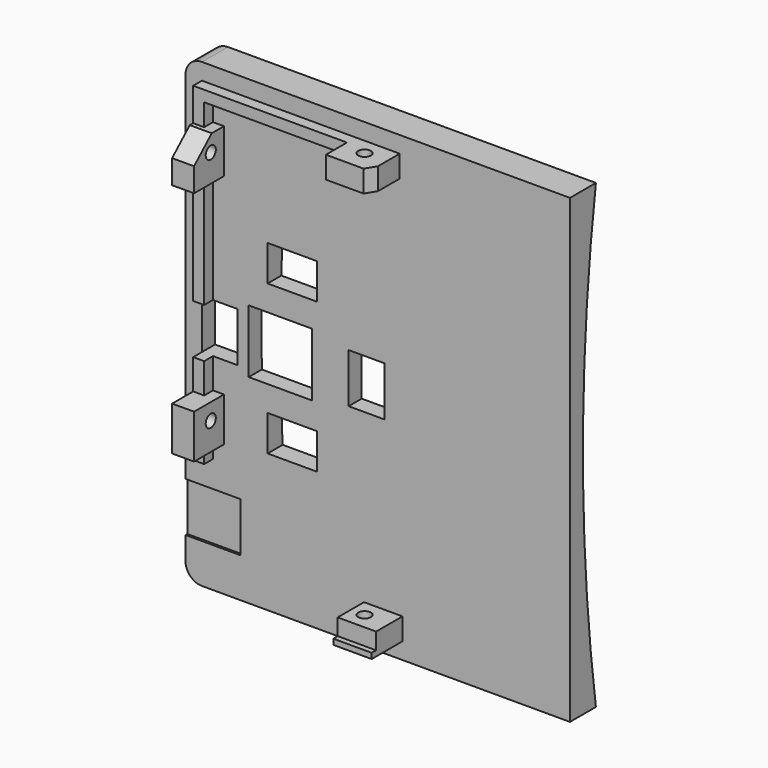
from build123d import *

# Parameters (mm, degrees)
SKETCH009_W             = 84
SKETCH009_H             = 70
PAD002_DEPTH            = 2
SKETCH010_W             = 2
SKETCH010_H             = 7
PAD003_DEPTH            = 2
SKETCH012_W             = 8
SKETCH012_H             = 6.8
PAD004_DEPTH            = 4
SKETCH013_W             = 7
SKETCH013_H             = 6
PAD005_DEPTH            = 4
SKETCH011_W             = 8
SKETCH011_H             = 6.8
PAD006_DEPTH            = 4
SKETCH014_R             = 1.15
POCKET002_DEPTH         = 81.001
SKETCH016_R             = 1.15
POCKET003_DEPTH         = 8.501
SKETCH018_W             = 11.5
SKETCH018_H             = 11.5
POCKET004_DEPTH         = 5
POCKET005_DEPTH         = 5
POCKET006_DEPTH         = 5
SKETCH021_W             = 1
SKETCH021_H             = 7
PAD007_DEPTH            = 1
SKETCH022_W             = 9
SKETCH022_H             = 10
POCKET007_DEPTH         = 0.4
FILLET_R                = 3
BODY002_PITCH_ANGLE     = -90
BODY002_PLACEMENT_ANGLE = 90
PAD001_DEPTH            = 35
SKETCH007_W             = 11.5
SKETCH007_H             = 11.5
POCKET001_DEPTH         = 13
FILLET001_R             = 3
SKETCH025_W             = 6.5
SKETCH025_H             = 9
SKETCH025_W_2           = 9
SKETCH025_H_2           = 6.5
POCKET008_DEPTH         = 8


with BuildPart() as back:
    # Sketch009 → Pad002 (new body)
    with BuildSketch(Plane.XY):
        Rectangle(SKETCH009_W, SKETCH009_H)
    extrude(amount=PAD002_DEPTH)

    # Sketch010 (on Face6 of Pad002) → Pad003 (join)
    with BuildSketch(Plane.XY.offset(2)):
        with Locations((-38, -1)):
            Rectangle(SKETCH010_W, SKETCH010_H)
        Polygon((-21, 32), (39, 32), (39, -4), (37, -4), (37, 30), (-21, 30), align=None)
    extrude(amount=PAD003_DEPTH)

    # Sketch012 (on Face15 of Pad003) → Pad004 (join)
    with BuildSketch(Plane.YZ.offset(39)):
        with Locations((0, 5.4)):
            Rectangle(SKETCH012_W, SKETCH012_H)
    extrude(amount=-PAD004_DEPTH)

    # Sketch013 (on Face9 of Pad004) → Pad005 (join)
    with BuildSketch(Plane(origin=(-39, 0, 0), x_dir=(0, -1, 0), z_dir=(-1, 0, 0))):
        with Locations((1, 5)):
            Rectangle(SKETCH013_W, SKETCH013_H)
    extrude(amount=-PAD005_DEPTH)

    # Sketch011 (on Face16 of Pad003) → Pad006 (join)
    with BuildSketch(Plane(origin=(0, 32, 0), x_dir=(-1, 0, 0), z_dir=(0, 1, 0))):
        with Locations((-29, 5.4)):
            Rectangle(SKETCH011_W, SKETCH011_H)
        with Locations((14, 5.4)):
            Rectangle(SKETCH011_W, SKETCH011_H)
    extrude(amount=-PAD006_DEPTH)

    # Sketch014 (on Face44 of Pad006) → Pocket002 (cut, through all)
    with BuildSketch(Plane.YZ.offset(39)):
        with Locations((0, 5)):
            Circle(SKETCH014_R)
    extrude(amount=-POCKET002_DEPTH, mode=Mode.SUBTRACT)

    # Sketch016 → Pocket003 (cut, through all)
    with BuildSketch(Plane.XZ.offset(-26.5)):
        with Locations((-13, 5)):
            Circle(SKETCH016_R)
        with Locations((30, 5)):
            Circle(SKETCH016_R)
    extrude(amount=-POCKET003_DEPTH, mode=Mode.SUBTRACT)

    # Sketch018 (on Face5 of Pocket003) → Pocket004 (cut)
    with BuildSketch(Plane.XY.offset(2)):
        with Locations((0, 17.75)):
            Rectangle(SKETCH018_W, SKETCH018_H)
    extrude(amount=-POCKET004_DEPTH, mode=Mode.SUBTRACT)

    # Sketch019 (on Face31 of Pocket004) → Pocket005 (cut)
    with BuildSketch(Plane.XZ.offset(-28)):
        Polygon((29.125944, 9.042901), (33.258869, 4.499726), (33.258869, 9.042901), align=None)
    extrude(amount=-POCKET005_DEPTH, mode=Mode.SUBTRACT)

    # Sketch020 (on Face36 of Pocket005) → Pocket006 (cut)
    with BuildSketch(Plane(origin=(35, 0, 0), x_dir=(0, -1, 0), z_dir=(-1, 0, 0))):
        Polygon((2.77547, 8.938441), (6.386171, 3.079567), (6.386171, 8.938441), align=None)
    extrude(amount=-POCKET006_DEPTH, mode=Mode.SUBTRACT)

    # Sketch021 (on Face40 of Pocket006) → Pad007 (join)
    with BuildSketch(Plane.XY.offset(8)):
        with Locations((-38.5, -1)):
            Rectangle(SKETCH021_W, SKETCH021_H)
    extrude(amount=PAD007_DEPTH)

    # Sketch022 (on Face5 of Pocket005) → Pocket007 (cut)
    with BuildSketch(Plane.XY.offset(2)):
        with Locations((-30.3, 30)):
            Rectangle(SKETCH022_W, SKETCH022_H)
    extrude(amount=-POCKET007_DEPTH, mode=Mode.SUBTRACT)

    # Fillet
    fillet_edges = [back.edges().sort_by_distance(p)[0] for p in [
        (42, 35, 1),
        (-42, 35, 1),
    ]]
    fillet(fillet_edges, radius=FILLET_R)


with BuildPart() as back_1:
    # Body002 pitch: moved
    add(back.part.rotate(Axis((0, 0, 0), (0, 1, 0)), BODY002_PITCH_ANGLE))


with BuildPart() as back_2:
    # Body002 placement: moved
    add(back_1.part.rotate(Axis((0, 0, 0), (0, 0, 1)), BODY002_PLACEMENT_ANGLE))


with BuildPart() as curve:
    # Sketch006 → Pad001 (new body, symmetric)
    with BuildSketch(Plane(origin=(0, 0, 0), x_dir=(0, 0, -1), z_dir=(1, 0, 0))):
        with BuildLine():
            ThreePointArc((-42, 3.9), (0, 0.945451), (42, 3.9))
            Line((42, -0.1), (42, 3.9))
            Line((-42, -0.1), (42, -0.1))
            Line((-42, 3.9), (-42, -0.1))
        make_face()
    extrude(amount=PAD001_DEPTH, both=True)

    # Sketch007 (on Face3 of Pad001) → Pocket001 (cut)
    with BuildSketch(Plane.XZ.offset(0.1)):
        with Locations((-17.75, 0)):
            Rectangle(SKETCH007_W, SKETCH007_H)
    extrude(amount=-POCKET001_DEPTH, mode=Mode.SUBTRACT)

    # Fillet001
    fillet001_edges = [curve.edges().sort_by_distance(p)[0] for p in [
        (-35, 1.9, -42),
        (-35, 1.9, 42),
    ]]
    fillet(fillet001_edges, radius=FILLET001_R)

    # Boolean: union Back
    add(back_2.part)

    # Sketch025 (on Face32 of Boolean) → Pocket008 (cut, symmetric)
    with BuildSketch(Plane.XZ.offset(2)):
        with Locations((-28.75, 0)):
            Rectangle(SKETCH025_W, SKETCH025_H)
        with Locations((-15.55, 13.625)):
            Rectangle(SKETCH025_W_2, SKETCH025_H_2)
        with Locations((-2.05, 0)):
            Rectangle(SKETCH025_W, SKETCH025_H)
        with Locations((-15.55, -13.625)):
            Rectangle(SKETCH025_W_2, SKETCH025_H_2)
    extrude(amount=POCKET008_DEPTH, both=True, mode=Mode.SUBTRACT)


solid = curve.part
